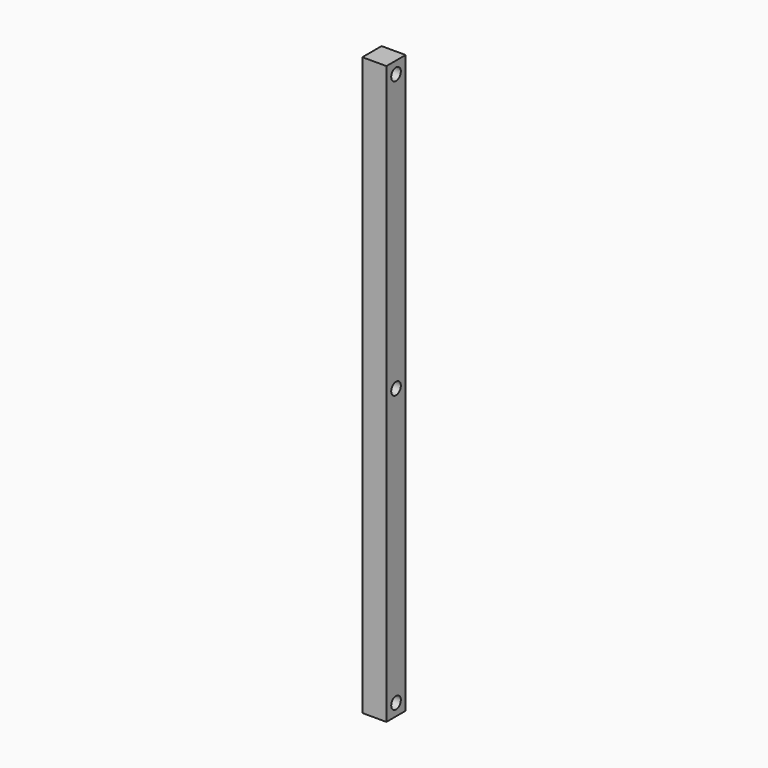
from build123d import *

# Parameters (mm, degrees)
F0_W     = 12.7
F0_H     = 12.7
F1_DEPTH = 152.4
F2_R     = 3.175
F3_DEPTH = 12.7


with BuildPart() as f1:
    # F0 (on Top) → F1 (new body, symmetric)
    with BuildSketch(Plane.XY):
        Rectangle(F0_W, F0_H)
    extrude(amount=F1_DEPTH, both=True)

    # F2 (on Right) → F3 (cut, symmetric)
    with BuildSketch(Plane.YZ):
        with Locations((0, 146.05)):
            Circle(F2_R)
        with Locations((0, -146.05)):
            Circle(F2_R)
        Circle(F2_R)
    extrude(amount=F3_DEPTH, both=True, mode=Mode.SUBTRACT)


solid = f1.part
